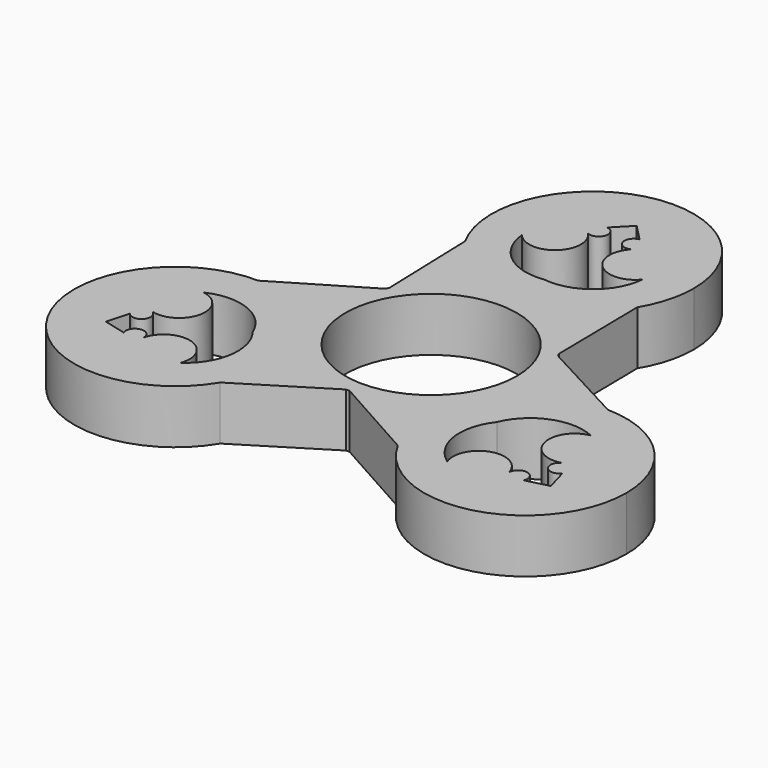
from build123d import *

# Parameters (mm, degrees)
F0_R     = 11.15
F1_DEPTH = 7


with BuildPart() as f1:
    # F0 (on Top) → F1 (new body)
    with BuildSketch(Plane.XY):
        with BuildLine():
            ThreePointArc((-11.503365, 19.928572), (-6.67601, 14.970685), (0, 13.15))
            ThreePointArc((0, 13.15), (6.453833, 14.842664), (11.246195, 19.484899))
            ThreePointArc((11.246195, 19.484899), (12.665109, 22.761989), (13.15, 26.3))
            ThreePointArc((13.15, 26.3), (-3.290384, 39.031688), (-11.503365, 19.928572))
        make_face()
        with Locations((0, 26.3)):
            Circle(F0_R, mode=Mode.SUBTRACT)
        with Locations((0, 26.3)):
            Circle(F0_R)
        with BuildLine():
            Line((-2.10331, 31.292442), (0, 33.447244))
            Line((0, 33.447244), (2.10331, 31.292442))
            ThreePointArc((2.10331, 31.292442), (1.145089, 29.736107), (2.851212, 29.080737))
            ThreePointArc((2.851212, 29.080737), (2.971602, 24.207772), (7.832865, 24.566114))
            ThreePointArc((7.832865, 24.566114), (5.252195, 19.77236), (0, 18.339049))
            ThreePointArc((0, 18.339049), (-5.252195, 19.77236), (-7.832865, 24.566114))
            ThreePointArc((-7.832865, 24.566114), (-2.971602, 24.207772), (-2.851212, 29.080737))
            ThreePointArc((-2.851212, 29.080737), (-1.145089, 29.736107), (-2.10331, 31.292442))
        make_face(mode=Mode.SUBTRACT)
        with BuildLine():
            ThreePointArc((0, 13.15), (6.608989, 11.368543), (11.427312, 6.506846))
            Line((11.427312, 6.506846), (11.246195, 19.484899))
            ThreePointArc((11.246195, 19.484899), (6.453833, 14.842664), (0, 13.15))
        make_face()
        with BuildLine():
            ThreePointArc((-11.095406, 7.057937), (-6.328927, 11.526803), (0, 13.15))
            ThreePointArc((0, 13.15), (-6.67601, 14.970685), (-11.503365, 19.928572))
            Line((-11.503365, 19.928572), (-11.095406, 7.057937))
        make_face()
        with BuildLine():
            ThreePointArc((11.388234, -6.575), (12.701925, -3.40347), (13.15, 0))
            ThreePointArc((13.15, 0), (12.772083, 3.129918), (11.660055, 6.079935))
            ThreePointArc((11.660055, 6.079935), (11.545657, 6.294466), (11.427312, 6.506846))
            ThreePointArc((11.427312, 6.506846), (6.608989, 11.368543), (0, 13.15))
            ThreePointArc((0, 13.15), (-6.328927, 11.526803), (-11.095406, 7.057937))
            ThreePointArc((-11.095406, 7.057937), (-11.223996, 6.851599), (-11.34875, 6.64292))
            ThreePointArc((-11.34875, 6.64292), (-13.149941, 0.039281), (-11.388234, -6.575))
            ThreePointArc((-11.388234, -6.575), (-6.81804, -11.244413), (-0.564649, -13.137872))
            ThreePointArc((-0.564649, -13.137872), (-0.321661, -13.146065), (-0.078562, -13.149765))
            ThreePointArc((-0.078562, -13.149765), (6.540952, -11.407824), (11.388234, -6.575))
        make_face()
        Circle(F0_R, mode=Mode.SUBTRACT)
        with BuildLine():
            ThreePointArc((11.660055, 6.079935), (12.772083, 3.129918), (13.15, 0))
            ThreePointArc((13.15, 0), (12.701925, -3.40347), (11.388234, -6.575))
            ThreePointArc((11.388234, -6.575), (16.302998, -1.703748), (23.010332, -0.00208))
            Line((23.010332, -0.00208), (11.660055, 6.079935))
        make_face()
        with BuildLine():
            ThreePointArc((23.010332, -0.00208), (16.302998, -1.703748), (11.388234, -6.575))
            ThreePointArc((11.388234, -6.575), (9.627208, -13.010516), (11.25132, -19.48194))
            ThreePointArc((11.25132, -19.48194), (26.045016, -25.887311), (35.926468, -13.15))
            ThreePointArc((35.926468, -13.15), (32.157241, -3.9346), (23.010332, -0.00208))
        make_face()
        with Locations((22.776468, -13.15)):
            Circle(F0_R, mode=Mode.SUBTRACT)
        with BuildLine():
            ThreePointArc((11.25132, -19.48194), (9.627208, -13.010516), (11.388234, -6.575))
            ThreePointArc((11.388234, -6.575), (6.540952, -11.407824), (-0.078562, -13.149765))
            Line((-0.078562, -13.149765), (11.25132, -19.48194))
        make_face()
        with Locations((22.776468, -13.15)):
            Circle(F0_R)
        with BuildLine():
            ThreePointArc((26.048395, -17.467741), (25.17968, -15.85973), (23.759051, -17.00959))
            ThreePointArc((23.759051, -17.00959), (19.478744, -14.677369), (17.358446, -19.066517))
            ThreePointArc((17.358446, -19.066517), (14.497269, -14.434714), (15.882082, -9.169525))
            ThreePointArc((15.882082, -9.169525), (19.749464, -5.337646), (25.191311, -5.499597))
            ThreePointArc((25.191311, -5.499597), (22.450346, -9.530403), (26.610263, -12.071147))
            ThreePointArc((26.610263, -12.071147), (26.324769, -13.876377), (28.151705, -13.824701))
            Line((28.151705, -13.824701), (28.966163, -16.723622))
            Line((28.966163, -16.723622), (26.048395, -17.467741))
        make_face(mode=Mode.SUBTRACT)
        with BuildLine():
            ThreePointArc((-22.497515, -0.002959), (-16.081041, -1.832149), (-11.388234, -6.575))
            ThreePointArc((-11.388234, -6.575), (-13.149941, 0.039281), (-11.34875, 6.64292))
            Line((-11.34875, 6.64292), (-22.497515, -0.002959))
        make_face()
        with BuildLine():
            Line((-11.506967, -19.926492), (-0.564649, -13.137872))
            ThreePointArc((-0.564649, -13.137872), (-6.81804, -11.244413), (-11.388234, -6.575))
            ThreePointArc((-11.388234, -6.575), (-10.074543, -9.74653), (-9.626468, -13.15))
            ThreePointArc((-9.626468, -13.15), (-10.105311, -16.666288), (-11.506967, -19.926492))
        make_face()
        with BuildLine():
            ThreePointArc((-9.626468, -13.15), (-10.074543, -9.74653), (-11.388234, -6.575))
            ThreePointArc((-11.388234, -6.575), (-16.081041, -1.832149), (-22.497515, -0.002959))
            ThreePointArc((-22.497515, -0.002959), (-34.290742, -19.501693), (-11.506967, -19.926492))
            ThreePointArc((-11.506967, -19.926492), (-10.105311, -16.666288), (-9.626468, -13.15))
        make_face()
        with Locations((-22.776468, -13.15)):
            Circle(F0_R, mode=Mode.SUBTRACT)
        with Locations((-22.776468, -13.15)):
            Circle(F0_R)
        with BuildLine():
            ThreePointArc((-28.151705, -13.824701), (-26.324769, -13.876377), (-26.610263, -12.071147))
            ThreePointArc((-26.610263, -12.071147), (-22.450346, -9.530403), (-25.191311, -5.499597))
            ThreePointArc((-25.191311, -5.499597), (-19.749464, -5.337646), (-15.882082, -9.169525))
            ThreePointArc((-15.882082, -9.169525), (-14.497269, -14.434714), (-17.358446, -19.066517))
            ThreePointArc((-17.358446, -19.066517), (-19.478744, -14.677369), (-23.759051, -17.00959))
            ThreePointArc((-23.759051, -17.00959), (-25.17968, -15.85973), (-26.048395, -17.467741))
            Line((-26.048395, -17.467741), (-28.966163, -16.723622))
            Line((-28.966163, -16.723622), (-28.151705, -13.824701))
        make_face(mode=Mode.SUBTRACT)
    extrude(amount=F1_DEPTH)


solid = f1.part
